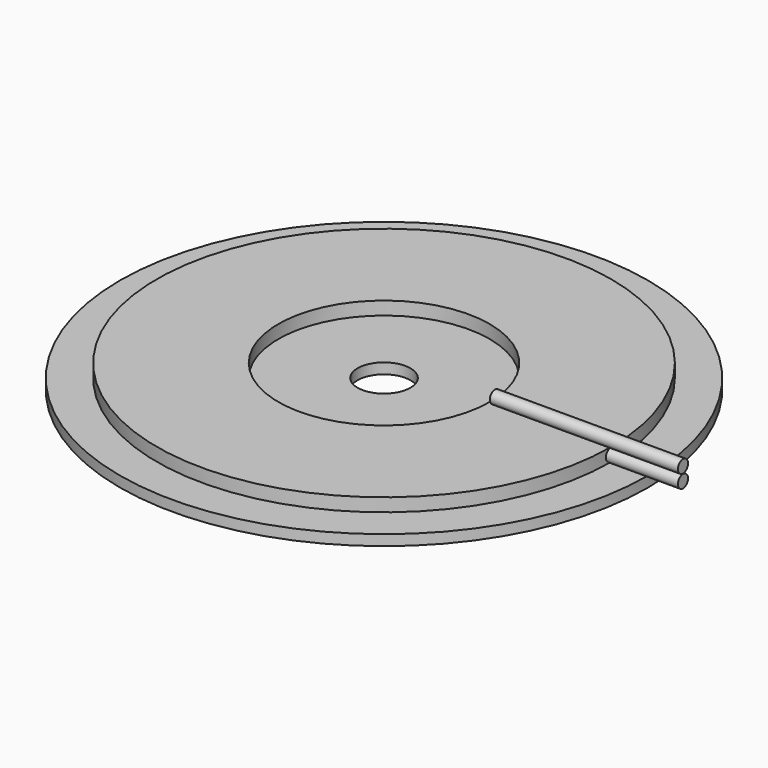
from build123d import *

# Parameters (mm, degrees)
F0_R     = 25
F0_R_2   = 2.5
F1_DEPTH = 1
F2_R     = 21.5
F2_R_2   = 10
F3_DEPTH = 1.25
F5_START = 10.5
F4_R     = 0.6
F5_DEPTH = 17.8


with BuildPart() as f1:
    # F0 (on Top) → F1 (new body)
    with BuildSketch(Plane.XY):
        Circle(F0_R)
        Circle(F0_R_2, mode=Mode.SUBTRACT)
    extrude(amount=F1_DEPTH)

    # F2 (on face) → F3 (join)
    with BuildSketch(Plane.XY.offset(1)):
        Circle(F2_R)
        Circle(F2_R_2, mode=Mode.SUBTRACT)
    extrude(amount=F3_DEPTH)


with BuildPart() as f5:
    # F4 (on Right) → F5 (new body)
    with BuildSketch(Plane.YZ.offset(F5_START)):
        with Locations((0, 1.6)):
            Circle(F4_R)
    extrude(amount=F5_DEPTH)


with BuildPart() as f5b:
    # F4 (on Right) → F5, piece 2 (new body)
    with BuildSketch(Plane.YZ.offset(F5_START)):
        with Locations((0, 2.85)):
            Circle(F4_R)
    extrude(amount=F5_DEPTH)


solid = Compound([f1.part, f5.part, f5b.part])
